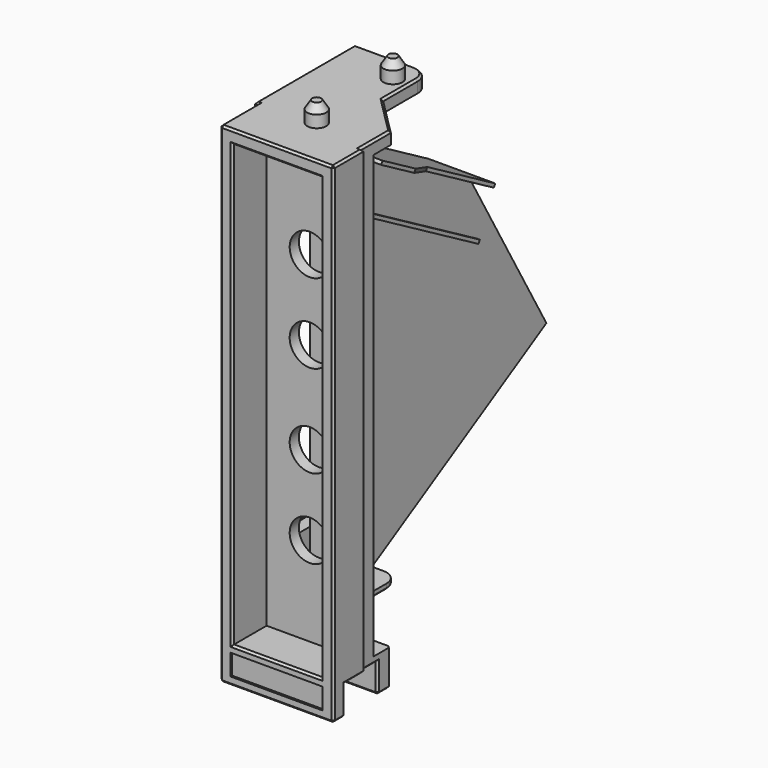
from build123d import *

# Parameters (mm, degrees)
PAD_DEPTH          = 97.8
PAD001_DEPTH       = 2.5
SKETCH002_W        = 22.6
SKETCH002_H        = 4.2
PAD002_DEPTH       = 7.2
PAD003_DEPTH       = 1.2
PAD004_DEPTH       = 2.5
SKETCH005_W        = 10.4
SKETCH005_H        = 8.8
SKETCH005_W_2      = 9.8
POCKET_DEPTH       = 5.8
CHAMFER_SIZE2      = 3
CHAMFER_SIZE       = 0.6
CHAMFER001_SIZE2   = 3
CHAMFER001_SIZE    = 0.6
SKETCH006_R        = 3.9
PAD005_DEPTH       = 4.5
SKETCH007_R        = 1.6
POCKET001_DEPTH    = 5
SKETCH008_R        = 1.9
PAD006_DEPTH       = 4
CHAMFER002_1_SIZE2 = 1
CHAMFER002_1_SIZE  = 1.6
CHAMFER002_2_SIZE2 = 1
CHAMFER002_2_SIZE  = 1.6
SKETCH009_W        = 18.4
SKETCH009_H        = 4.2
POCKET002_DEPTH    = 0.4
SKETCH010_W        = 17.6
SKETCH010_H        = 87.9
POCKET003_DEPTH    = 8.5
CHAMFER003_SIZE    = 0.4
CHAMFER004_SIZE    = 0.4
CHAMFER005_SIZE    = 0.4
SKETCH011_R        = 4
POCKET004_DEPTH    = 5
SKETCH012_W        = 12
SKETCH012_H        = 82
PAD007_DEPTH       = 0.7
PAD008_DEPTH       = 0.7
PAD009_DEPTH       = 0.7
PAD010_DEPTH       = 0.4


with BuildPart() as body:
    # Sketch → Pad (new body)
    with BuildSketch(Plane.XY):
        Polygon((-22.6, 0), (-22.6, 9.5), (-23.2, 9.5), (-23.2, 10.8), (-0.6, 10.8), (-0.6, 7.5), (0, 7.5), (0, 0), align=None)
    extrude(amount=PAD_DEPTH)

    # Sketch001 (on Face10 of Pad) → Pad001 (join)
    with BuildSketch(Plane.XY.offset(97.8)):
        with BuildLine():
            Line((-23.2, 10.8), (-23.2, 34.3))
            Line((-23.2, 34.3), (-11.2, 34.3))
            ThreePointArc((-8.2, 31.3), (-9.07868, 33.42132), (-11.2, 34.3))
            Line((-8.2, 31.3), (-8.2, 22.7))
            Line((-8.2, 22.7), (-0.6, 15.1))
            Line((-0.6, 15.1), (-0.6, 10.8))
            Line((-0.6, 10.8), (-23.2, 10.8))
        make_face()
    extrude(amount=-PAD001_DEPTH)

    # Sketch002 (on Face4 of Pad001) → Pad002 (join)
    with BuildSketch(Plane(origin=(0, 0, 0), x_dir=(1, 0, 0), z_dir=(0, 0, -1))):
        with Locations((-11.9, -12.9)):
            Rectangle(SKETCH002_W, SKETCH002_H)
    extrude(amount=-PAD002_DEPTH)

    # Sketch003 (on Face22 of Pad002) → Pad003 (join)
    with BuildSketch(Plane.XY.offset(7.2)):
        with BuildLine():
            Line((-23.2, 15), (-23.2, 34.3))
            Line((-23.2, 34.3), (-17.4, 34.3))
            ThreePointArc((-14.4, 31.3), (-15.27868, 33.42132), (-17.4, 34.3))
            Line((-14.4, 31.3), (-14.4, 20.7))
            Line((-14.4, 20.7), (-8.7, 15))
            Line((-8.7, 15), (-23.2, 15))
        make_face()
    extrude(amount=-PAD003_DEPTH)

    # Sketch004 (on Face7 of Pad003) → Pad004 (join)
    with BuildSketch(Plane(origin=(-23.2, 0, 0), x_dir=(0, -1, 0), z_dir=(-1, 0, 0))):
        with BuildLine():
            Line((-34.3, 7.2), (-34.3, 16.7))
            ThreePointArc((-31.3, 19.7), (-33.42132, 18.82132), (-34.3, 16.7))
            Line((-31.3, 19.7), (-15.4, 19.7))
            ThreePointArc((-15.4, 19.7), (-13.27868, 20.57868), (-12.4, 22.7))
            Line((-12.4, 22.7), (-12.4, 79.8))
            ThreePointArc((-12.4, 79.8), (-13.27868, 81.92132), (-15.4, 82.8))
            Line((-15.4, 82.8), (-31.3, 82.8))
            ThreePointArc((-34.3, 85.8), (-33.42132, 83.67868), (-31.3, 82.8))
            Line((-34.3, 85.8), (-34.3, 95.3))
            Line((-34.3, 95.3), (-10.8, 95.3))
            Line((-10.8, 95.3), (-10.8, 7.2))
            Line((-10.8, 7.2), (-34.3, 7.2))
        make_face()
    extrude(amount=-PAD004_DEPTH)

    # Sketch005 (on Face4 of Pad004) → Pocket (cut)
    with BuildSketch(Plane(origin=(0, 0, 0), x_dir=(1, 0, 0), z_dir=(0, 0, -1))):
        with Locations((-18, -7.4)):
            Rectangle(SKETCH005_W, SKETCH005_H)
        with Locations((-4.9, -7.4)):
            Rectangle(SKETCH005_W_2, SKETCH005_H)
    extrude(amount=-POCKET_DEPTH, mode=Mode.SUBTRACT)

    # Chamfer
    chamfer_edges = [body.edges().sort_by_distance(p)[0] for p in [
        (-9.8, 6.9, 0),
    ]]
    chamfer_side = body.faces().sort_by_distance((-11.3, 2.885526, 0))[0]
    chamfer(chamfer_edges, length=CHAMFER_SIZE, length2=CHAMFER_SIZE2, reference=chamfer_side)

    # Chamfer001
    chamfer001_edges = [body.edges().sort_by_distance(p)[0] for p in [
        (-12.8, 6.9, 0),
    ]]
    chamfer001_side = body.faces().sort_by_distance((-11.36491, 2.668377, 0))[0]
    chamfer(chamfer001_edges, length=CHAMFER001_SIZE, length2=CHAMFER001_SIZE2, reference=chamfer001_side)

    # Sketch006 (on Face25 of Chamfer001) → Pad005 (join)
    with BuildSketch(Plane(origin=(-23.2, 0, 0), x_dir=(0, -1, 0), z_dir=(-1, 0, 0))):
        with Locations((-29.3, 89)):
            Circle(SKETCH006_R)
        with Locations((-29.3, 13)):
            Circle(SKETCH006_R)
    extrude(amount=PAD005_DEPTH)

    # Sketch007 (on Face25 of Pad005) → Pocket001 (cut, symmetric)
    with BuildSketch(Plane(origin=(-23.2, 0, 0), x_dir=(0, -1, 0), z_dir=(-1, 0, 0))):
        with Locations((-29.3, 13)):
            Circle(SKETCH007_R)
        with Locations((-29.3, 89)):
            Circle(SKETCH007_R)
    extrude(amount=POCKET001_DEPTH, both=True, mode=Mode.SUBTRACT)

    # Sketch008 (on Face22 of Pocket001) → Pad006 (join)
    with BuildSketch(Plane.XY.offset(97.8)):
        with Locations((-11.3, 10)):
            Circle(SKETCH008_R)
        with Locations((-11.3, 29)):
            Circle(SKETCH008_R)
    extrude(amount=PAD006_DEPTH)

    # Chamfer002 1
    chamfer002_1_edges = [body.edges().sort_by_distance(p)[0] for p in [
        (-13.2, 29, 101.8),
    ]]
    chamfer002_1_side = body.faces().sort_by_distance((-13.2, 29, 99.8))[0]
    chamfer(chamfer002_1_edges, length=CHAMFER002_1_SIZE, length2=CHAMFER002_1_SIZE2, reference=chamfer002_1_side)

    # Chamfer002 2
    chamfer002_2_edges = [body.edges().sort_by_distance(p)[0] for p in [
        (-13.2, 10, 101.8),
    ]]
    chamfer002_2_side = body.faces().sort_by_distance((-13.2, 10, 99.8))[0]
    chamfer(chamfer002_2_edges, length=CHAMFER002_2_SIZE, length2=CHAMFER002_2_SIZE2, reference=chamfer002_2_side)

    # Sketch009 (on Face12 of Chamfer002) → Pocket002 (cut)
    with BuildSketch(Plane.XZ):
        with Locations((-11.3, 3.7)):
            Rectangle(SKETCH009_W, SKETCH009_H)
    extrude(amount=-POCKET002_DEPTH, mode=Mode.SUBTRACT)

    # Sketch010 (on Face12 of Pocket002) → Pocket003 (cut)
    with BuildSketch(Plane.XZ):
        with Locations((-11.3, 51.15)):
            Rectangle(SKETCH010_W, SKETCH010_H)
    extrude(amount=-POCKET003_DEPTH, mode=Mode.SUBTRACT)

    # Chamfer003
    chamfer003_edges = [body.edges().sort_by_distance(p)[0] for p in [
        (-20.7, 30.9, 13),
        (-20.7, 30.9, 89),
    ]]
    chamfer(chamfer003_edges, length=CHAMFER003_SIZE)

    # Chamfer004
    chamfer004_edges = [body.edges().sort_by_distance(p)[0] for p in [
        (-22.6, 0, 48.9),
        (0, 0, 48.9),
        (-20.1, 0, 51.15),
        (-11.3, 0, 95.1),
        (-2.5, 0, 51.15),
        (-11.3, 0, 7.2),
        (-11.3, 0, 0),
        (0, 1.5, 0),
        (-22.6, 1.5, 0),
        (-17.7, 3, 0),
        (-4.9, 3, 0),
        (-5.2, 11.8, 0),
        (-0.6, 13.4, 0),
        (-0.6, 15, 3.6),
        (-11.9, 15, 0),
        (-18, 11.8, 0),
        (-23.2, 13.4, 0),
        (-23.2, 15, 3),
        (-11.3, 0, 97.8),
        (-22.6, 4.75, 97.8),
        (-22.9, 9.5, 97.8),
        (-23.2, 10.15, 97.8),
        (-23.2, 22.55, 97.8),
        (0, 3.75, 97.8),
        (-0.3, 7.5, 97.8),
        (-0.6, 9.15, 97.8),
        (-0.6, 12.95, 97.8),
        (-4.4, 18.9, 97.8),
        (-8.2, 27, 97.8),
        (0, 3, 2.9),
        (0, 5.25, 5.8),
        (-0.3, 7.5, 5.8),
        (-0.6, 9.15, 5.8),
        (-0.6, 11.3, 5.8),
        (-0.6, 11.8, 2.9),
        (-22.6, 3, 2.9),
        (-22.6, 6.25, 5.8),
        (-22.9, 9.5, 5.8),
        (-23.2, 10.15, 5.8),
        (-23.2, 11.3, 5.8),
        (-23.2, 11.8, 2.9),
    ]]
    chamfer(chamfer004_edges, length=CHAMFER004_SIZE)

    # Chamfer005
    chamfer005_edges = [body.edges().sort_by_distance(p)[0] for p in [
        (-11.55, 17.85, 6),
        (-14.4, 26, 6),
        (-15.27868, 33.42132, 6),
        (-20.3, 34.3, 6),
        (-23.2, 24.65, 6),
    ]]
    chamfer(chamfer005_edges, length=CHAMFER005_SIZE)

    # Sketch011 (on Face22 of Chamfer005) → Pocket004 (cut)
    with BuildSketch(Plane(origin=(0, 10.8, 0), x_dir=(-1, 0, 0), z_dir=(0, 1, 0))):
        with Locations((11.5, 25)):
            Circle(SKETCH011_R)
        with Locations((11.5, 40.9)):
            Circle(SKETCH011_R)
        with Locations((11.5, 59.3)):
            Circle(SKETCH011_R)
        with Locations((11.5, 75.2)):
            Circle(SKETCH011_R)
    extrude(amount=-POCKET004_DEPTH, mode=Mode.SUBTRACT)


with BuildPart() as body001:
    # Sketch012 (on DatumPlane) → Pad007 (new body)
    with BuildSketch(Plane.XZ.offset(-16)):
        with Locations((-11.4, 51)):
            Rectangle(SKETCH012_W, SKETCH012_H)
    extrude(amount=-PAD007_DEPTH)

    # Sketch013 (on DatumPlane) → Pad008 (join)
    with BuildSketch(Plane(origin=(0, 0, 90), x_dir=(1, 0, 0), z_dir=(0, 0.5, 0.866025))):
        Polygon((-28.360654, 58.171814), (-11.070654, 58.171814), (-11.070654, 14.591814), (-20.230654, 14.591814), (-20.230654, 16.091814), (-24.030654, 16.091814), (-24.030654, 40.091814), (-28.360654, 40.091814), align=None)
    extrude(amount=-PAD008_DEPTH)

    # Sketch014 (on DatumPlane) → Pad009 (join)
    with BuildSketch(Plane(origin=(0, 0, 101), x_dir=(1, 0, 0), z_dir=(0, 0.5, 0.866025))):
        Polygon((-20.22, 13.896562), (-20.22, 56.566562), (-6.88, 56.566562), (-6.88, 36.996562), (0.2, 23.456562), (0.2, 13.896562), align=None)
    extrude(amount=-PAD009_DEPTH)

    # Sketch015 (on DatumPlane) → Pad010 (join, symmetric)
    with BuildSketch(Plane(origin=(-12, 0, 0), x_dir=(0, 0.866025, 0.5), z_dir=(1, 0, 0))):
        Polygon((19.12226, 0), (59.52729, 70.702085), (78.120346, 38.418921), (78.120346, 0), align=None)
    extrude(amount=PAD010_DEPTH, both=True)


solid = Compound([body.part, body001.part])
